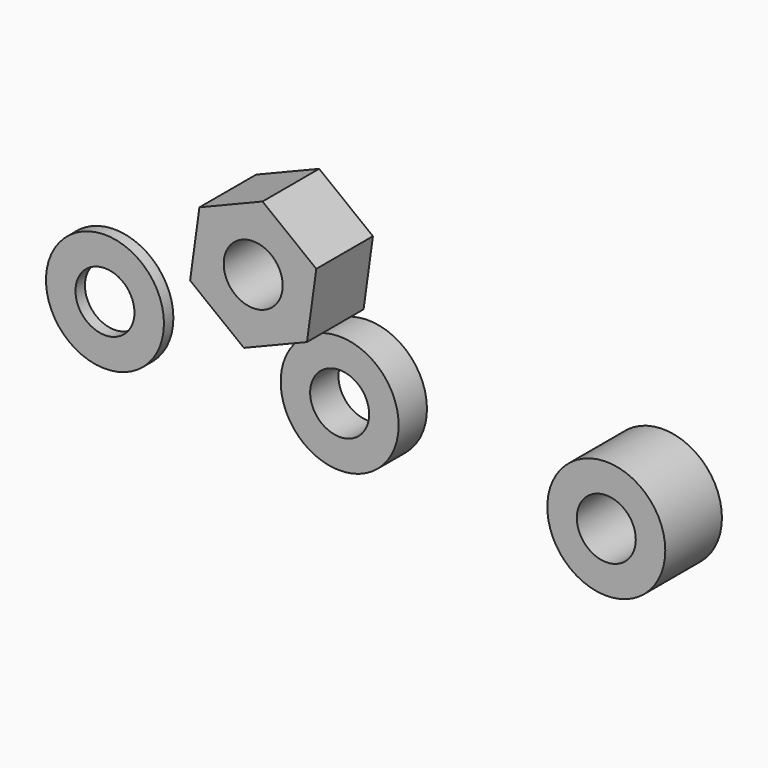
from build123d import *

# Parameters (mm, degrees)
F0_R     = 5
F0_R_2   = 2.5
F1_DEPTH = 3
F2_DEPTH = 6
F3_DEPTH = 6
F4_R     = 5
F4_R_2   = 2.5
F5_DEPTH = 1


with BuildPart() as f1:
    # F0 (on Front) → F1 (new body)
    with BuildSketch(Plane.XZ):
        with Locations((3.249018, -2.784872)):
            Circle(F0_R)
        with Locations((3.249018, -2.784872)):
            Circle(F0_R_2, mode=Mode.SUBTRACT)
    extrude(amount=F1_DEPTH)


with BuildPart() as f2:
    # F0 (on Front) → F2 (new body)
    with BuildSketch(Plane.XZ):
        with Locations((28.249018, -2.784872)):
            Circle(F0_R)
        with Locations((28.249018, -2.784872)):
            Circle(F0_R_2, mode=Mode.SUBTRACT)
    extrude(amount=F2_DEPTH)


with BuildPart() as f3:
    # F0 (on Front) → F3 (new body)
    with BuildSketch(Plane.XZ):
        Polygon((3.669095, 8.614697), (-0.888231, 12.159286), (-6.236598, 9.98482), (-7.027639, 4.265765), (-2.470313, 0.721176), (2.878054, 2.895642), align=None)
        with Locations((-1.679272, 6.440231)):
            Circle(F0_R_2, mode=Mode.SUBTRACT)
    extrude(amount=F3_DEPTH)


with BuildPart() as f5:
    # F4 (on Front) → F5 (new body)
    with BuildSketch(Plane.XZ):
        with Locations((-18.24329, -2.996214)):
            Circle(F4_R)
        with Locations((-18.24329, -2.996214)):
            Circle(F4_R_2, mode=Mode.SUBTRACT)
    extrude(amount=F5_DEPTH)


solid = Compound([f1.part, f2.part, f3.part, f5.part])
